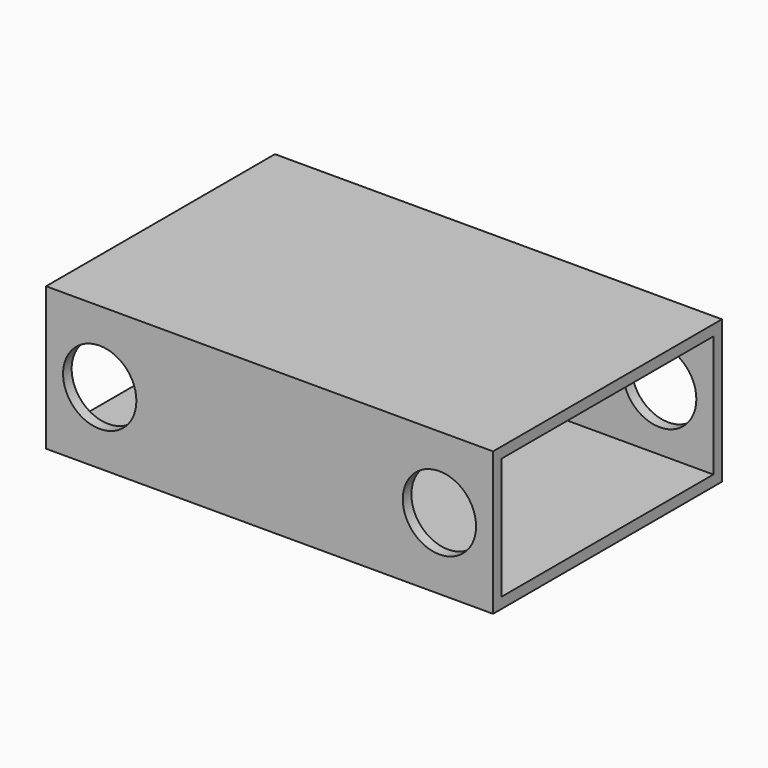
from build123d import *

# Parameters (mm, degrees)
F0_W     = 80
F0_H     = 40
F1_DEPTH = 125
F2_T     = -3
F3_R     = 10.25
F4_DEPTH = 80.001


with BuildPart() as f1:
    # F0 (on Right) → F1 (new body)
    with BuildSketch(Plane.YZ):
        with Locations((40, 20)):
            Rectangle(F0_W, F0_H)
    extrude(amount=F1_DEPTH)

    # F2
    f2_openings = [f1.faces().sort_by_distance(p)[0] for p in [
        (125, 40, 20),
        (0, 40, 20),
    ]]
    offset(amount=F2_T, openings=f2_openings)

    # F3 (on face) → F4 (cut, through all)
    with BuildSketch(Plane.XZ):
        with Locations((15, 20)):
            Circle(F3_R)
        with Locations((110, 20)):
            Circle(F3_R)
    extrude(amount=-F4_DEPTH, mode=Mode.SUBTRACT)


solid = f1.part
